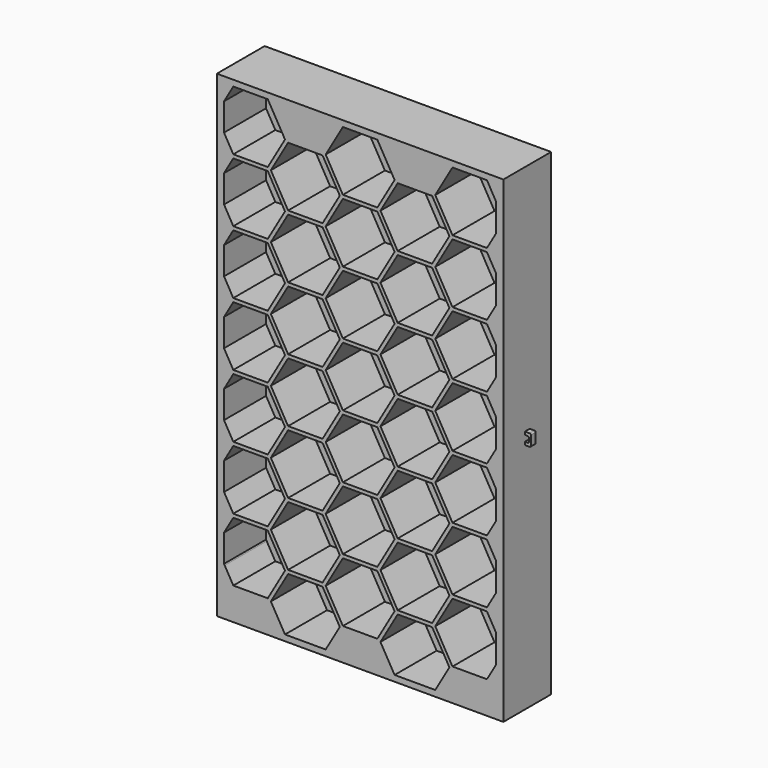
from build123d import *

# Parameters (mm, degrees)
F0_W      = 1200
F0_H      = 250
F1_DEPTH  = 2000
F5_DEPTH  = 220
F7_DEPTH  = 220
F8_W      = 25
F8_H      = 50
F9_DEPTH  = 25
F10_W     = 17
F10_H     = 25
F11_DEPTH = 25
F12_R     = 5


with BuildPart() as f1:
    # F0 (on Top) → F1 (new body)
    with BuildSketch(Plane.XY):
        with Locations((600, 125)):
            Rectangle(F0_W, F0_H)
    extrude(amount=F1_DEPTH)

    # F4 (on face) → F5 (cut)
    with BuildSketch(Plane.XZ):
        Polygon((672.168784, 1725), (744.337567, 1850), (672.168784, 1975), (527.831216, 1975), (455.662433, 1850), (527.831216, 1725), align=None)
        Polygon((901.665516, 1592.5), (973.834299, 1717.5), (901.665516, 1842.5), (757.327948, 1842.5), (685.159165, 1717.5), (757.327948, 1592.5), align=None)
        Polygon((672.168784, 1460), (744.337567, 1585), (672.168784, 1710), (527.831216, 1710), (455.662433, 1585), (527.831216, 1460), align=None)
        Polygon((442.672052, 1592.5), (514.840835, 1717.5), (442.672052, 1842.5), (298.334484, 1842.5), (226.165701, 1717.5), (298.334484, 1592.5), align=None)
        Polygon((442.672052, 1327.5), (514.840835, 1452.5), (442.672052, 1577.5), (298.334484, 1577.5), (226.165701, 1452.5), (298.334484, 1327.5), align=None)
        Polygon((68.837752, 1460), (213.17532, 1460), (285.344103, 1585), (213.17532, 1710), (68.837752, 1710), (30, 1642.73104), (30, 1527.26896), align=None)
        Polygon((1131.162181, 1459.999885), (1170, 1527.26896), (1170, 1642.730809), (1131.162181, 1709.999885), (986.824614, 1709.999885), (914.65583, 1584.999885), (986.824614, 1459.999885), align=None)
        Polygon((1131.162048, 1194.999885), (1170, 1262.269191), (1170, 1377.730578), (1131.162048, 1444.999885), (986.824481, 1444.999885), (914.655697, 1319.999885), (986.824481, 1194.999885), align=None)
        Polygon((901.665382, 1327.5), (973.834166, 1452.5), (901.665382, 1577.5), (757.327815, 1577.5), (685.159032, 1452.5), (757.327815, 1327.5), align=None)
        Polygon((901.665249, 1062.5), (973.834033, 1187.5), (901.665249, 1312.5), (757.327682, 1312.5), (685.158898, 1187.5), (757.327682, 1062.5), align=None)
        Polygon((527.831017, 1195.000115), (672.168584, 1195.000115), (744.337367, 1320.000115), (672.168584, 1445.000115), (527.831017, 1445.000115), (455.662233, 1320.000115), align=None)
        Polygon((285.344103, 1320), (213.17532, 1445), (68.837752, 1445), (30, 1377.73104), (30, 1262.26896), (68.837752, 1195), (213.17532, 1195), align=None)
    extrude(amount=-F5_DEPTH, mode=Mode.SUBTRACT)

    # F6 (on face) → F7 (cut)
    with BuildSketch(Plane.XZ):
        Polygon((442.672052, 1062.5), (514.840835, 1187.5), (442.672052, 1312.5), (298.334484, 1312.5), (226.165701, 1187.5), (298.334484, 1062.5), align=None)
        Polygon((672.16885, 930.000115), (744.337634, 1055.000115), (672.16885, 1180.000115), (527.831283, 1180.000115), (455.662499, 1055.000115), (527.831283, 930.000115), align=None)
        Polygon((213.17532, 930), (285.344103, 1055), (213.17532, 1180), (68.837752, 1180), (30, 1112.73104), (30, 997.26896), (68.837752, 930), align=None)
        Polygon((1131.161915, 929.999885), (1170, 997.269422), (1170, 1112.730348), (1131.161915, 1179.999885), (986.824347, 1179.999885), (914.655564, 1054.999885), (986.824347, 929.999885), align=None)
        Polygon((901.665516, 797.5), (973.834299, 922.5), (901.665516, 1047.5), (757.327948, 1047.5), (685.159165, 922.5), (757.327948, 797.5), align=None)
        Polygon((442.672052, 797.5), (514.840835, 922.5), (442.672052, 1047.5), (298.334484, 1047.5), (226.165701, 922.5), (298.334484, 797.5), align=None)
        Polygon((213.17532, 665), (285.344103, 790), (213.17532, 915), (68.837752, 915), (30, 847.73104), (30, 732.26896), (68.837752, 665), align=None)
        Polygon((672.16885, 665.000115), (744.337634, 790.000115), (672.16885, 915.000115), (527.831283, 915.000115), (455.662499, 790.000115), (527.831283, 665.000115), align=None)
        Polygon((901.665516, 532.5), (973.834299, 657.5), (901.665516, 782.5), (757.327948, 782.5), (685.159165, 657.5), (757.327948, 532.5), align=None)
        Polygon((1131.162181, 664.999885), (1170, 732.26896), (1170, 847.730809), (1131.162181, 914.999885), (986.824614, 914.999885), (914.65583, 789.999885), (986.824614, 664.999885), align=None)
        Polygon((442.672052, 532.5), (514.840835, 657.5), (442.672052, 782.5), (298.334484, 782.5), (226.165701, 657.5), (298.334484, 532.5), align=None)
        Polygon((213.17532, 400), (285.344103, 525), (213.17532, 650), (68.837752, 650), (30, 582.73104), (30, 467.26896), (68.837752, 400), align=None)
        Polygon((442.672052, 267.5), (514.840835, 392.5), (442.672052, 517.5), (298.334484, 517.5), (226.165701, 392.5), (298.334484, 267.5), align=None)
        Polygon((672.16885, 400.000115), (744.337634, 525.000115), (672.16885, 650.000115), (527.831283, 650.000115), (455.662499, 525.000115), (527.831283, 400.000115), align=None)
        Polygon((901.665516, 267.5), (973.834299, 392.5), (901.665516, 517.5), (757.327948, 517.5), (685.159165, 392.5), (757.327948, 267.5), align=None)
        Polygon((1131.162181, 399.999885), (1170, 467.26896), (1170, 582.730809), (1131.162181, 649.999885), (986.824614, 649.999885), (914.65583, 524.999885), (986.824614, 399.999885), align=None)
        Polygon((213.17532, 135), (285.344103, 260), (213.17532, 385), (68.837752, 385), (30, 317.73104), (30, 202.532192), (32.753361, 197.5), (68.837752, 135), align=None)
        Polygon((455.662433, 25), (514.840835, 127.5), (442.672052, 252.5), (298.334484, 252.5), (226.165701, 127.5), (285.344103, 25), align=None)
        Polygon((672.16885, 135.000115), (744.337634, 260.000115), (672.16885, 385.000115), (527.831283, 385.000115), (455.662499, 260.000115), (527.831283, 135.000115), align=None)
        Polygon((914.655897, 25), (973.834299, 127.5), (901.665516, 252.5), (757.327948, 252.5), (685.159165, 127.5), (744.337567, 25), align=None)
        Polygon((1131.162181, 134.999885), (1170, 202.26896), (1170, 317.730809), (1131.162181, 384.999885), (986.824614, 384.999885), (914.65583, 259.999885), (986.824614, 134.999885), align=None)
        Polygon((213.17532, 1725), (285.344103, 1850), (213.17532, 1975), (68.837752, 1975), (30, 1907.73104), (30, 1792.532192), (68.837752, 1725), align=None)
        Polygon((1131.162314, 1724.999885), (1167.246706, 1787.499885), (1170, 1792.531948), (1170, 1907.73104), (1131.162314, 1974.999885), (986.824747, 1974.999885), (914.655963, 1849.999885), (986.824747, 1724.999885), align=None)
    extrude(amount=-F7_DEPTH, mode=Mode.SUBTRACT)

    # F8 (on face) → F9 (join)
    with BuildSketch(Plane.YZ.offset(1200)):
        with Locations((125, 1000)):
            Rectangle(F8_W, F8_H)
    extrude(amount=F9_DEPTH)

    # F10 (on face) → F11 (cut)
    with BuildSketch(Plane.XZ.offset(-112.5)):
        with Locations((1208.5, 1000)):
            Rectangle(F10_W, F10_H)
    extrude(amount=-F11_DEPTH, mode=Mode.SUBTRACT)

    # F12
    f12_edges = [f1.edges().sort_by_distance(p)[0] for p in [
        (1225, 125, 975),
        (1225, 125, 1025),
        (1217, 125, 1012.5),
        (1217, 125, 987.5),
    ]]
    fillet(f12_edges, radius=F12_R)


solid = f1.part
